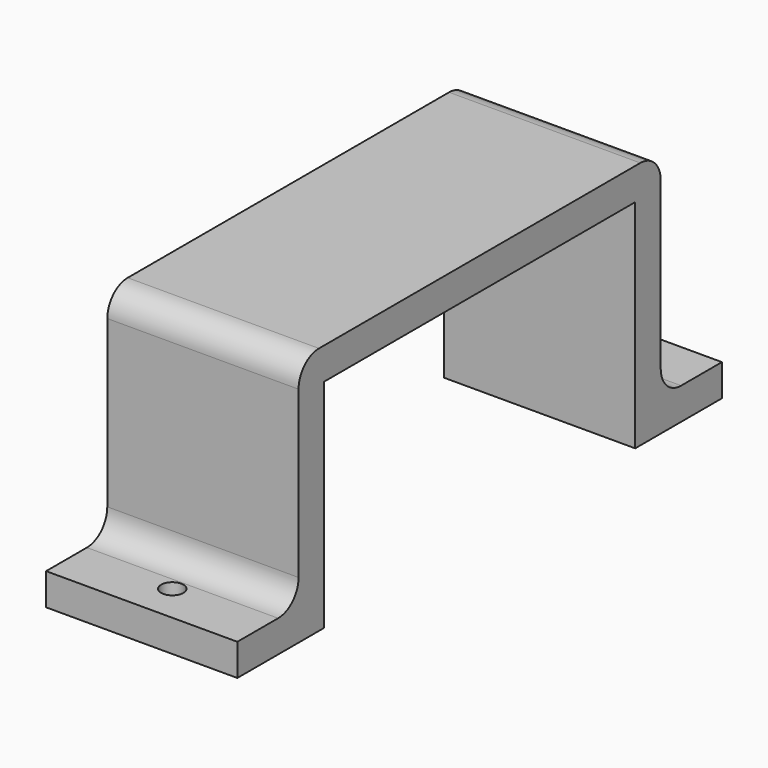
from build123d import *

# Parameters (mm, degrees)
F0_W     = 30
F0_H     = 5
F1_DEPTH = 34
F0_H_2   = 12
F0_R     = 1.75
F2_DEPTH = 5
F3_W     = 30
F3_H     = 5
F3_H_2   = 66
F4_DEPTH = 5
F5_R     = 4


with BuildPart() as f1:
    # F0 (on Top) → F1 (new body)
    with BuildSketch(Plane.XY):
        with Locations((15, 68.5)):
            Rectangle(F0_W, F0_H)
    extrude(amount=F1_DEPTH)

    # F0 (on Top) → F2 (join)
    with BuildSketch(Plane.XY):
        with Locations((15, 77)):
            Rectangle(F0_W, F0_H_2)
        with Locations((15, 77)):
            Circle(F0_R, mode=Mode.SUBTRACT)
    extrude(amount=F2_DEPTH)



with BuildPart() as f1b:
    # F0 (on Top) → F1, piece 2 (new body)
    with BuildSketch(Plane.XY):
        with Locations((15, 2.5)):
            Rectangle(F0_W, F0_H)
    extrude(amount=F1_DEPTH)

    # F0 (on Top) → F2, piece 2 (join)
    with BuildSketch(Plane.XY):
        with Locations((15, -6)):
            Rectangle(F0_W, F0_H_2)
        with Locations((15, -6)):
            Circle(F0_R, mode=Mode.SUBTRACT)
    extrude(amount=F2_DEPTH)


with BuildPart() as f1_1:
    add(f1.part)

    add(f1b.part)  # F4 merges F1b
    # F3 (on face) → F4 (join)
    with BuildSketch(Plane.XY.offset(34)):
        with Locations((15, 68.5)):
            Rectangle(F3_W, F3_H)
        with Locations((15, 33)):
            Rectangle(F3_W, F3_H_2)
    extrude(amount=F4_DEPTH)

    # F5
    f5_edges = [f1_1.edges().sort_by_distance(p)[0] for p in [
        (15, 0, 5),
        (15, 0, 39),
        (15, 71, 39),
        (15, 71, 5),
    ]]
    fillet(f5_edges, radius=F5_R)


solid = f1_1.part
